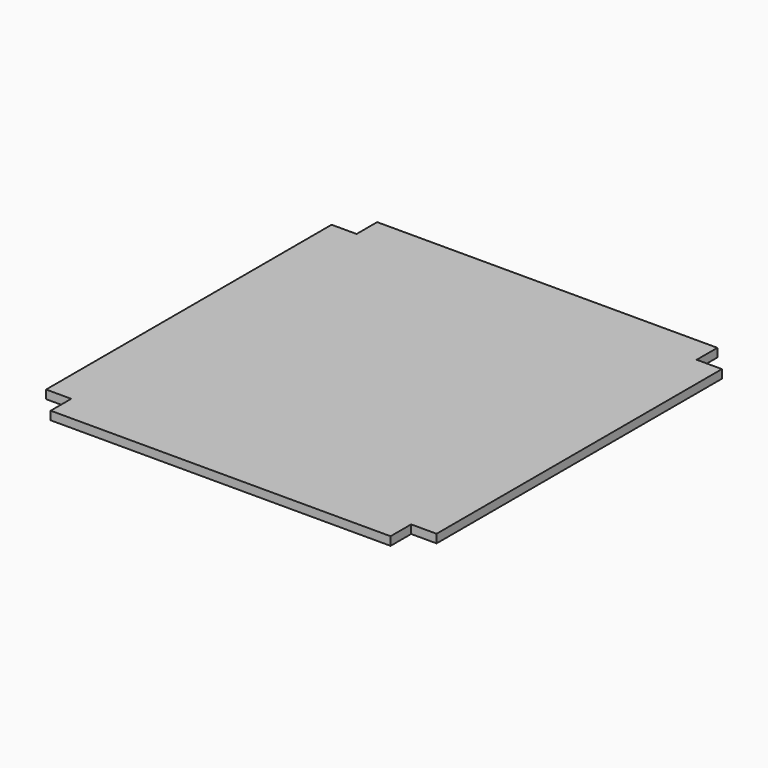
from build123d import *

# Parameters (mm, degrees)
F1_DEPTH = 6.35


with BuildPart() as f1:
    # F0 (on Top) → F1 (new body, symmetric)
    with BuildSketch(Plane.XY):
        Polygon((-12.533172, -12.384136), (-12.533172, -50.8), (0, -50.8), (495.419621, -50.8), (495.419621, -12.370547), (533.455313, -12.370547), (533.455313, 520.62219), (495.745477, 520.62219), (495.745477, 559.283648), (0, 559.283648), (-12.710482, 559.283648), (-12.710482, 520.912826), (-50.116342, 520.912826), (-50.116342, 508.483648), (-50.116342, 0), (-50.116342, -12.384136), align=None)
    extrude(amount=F1_DEPTH, both=True)


solid = f1.part
